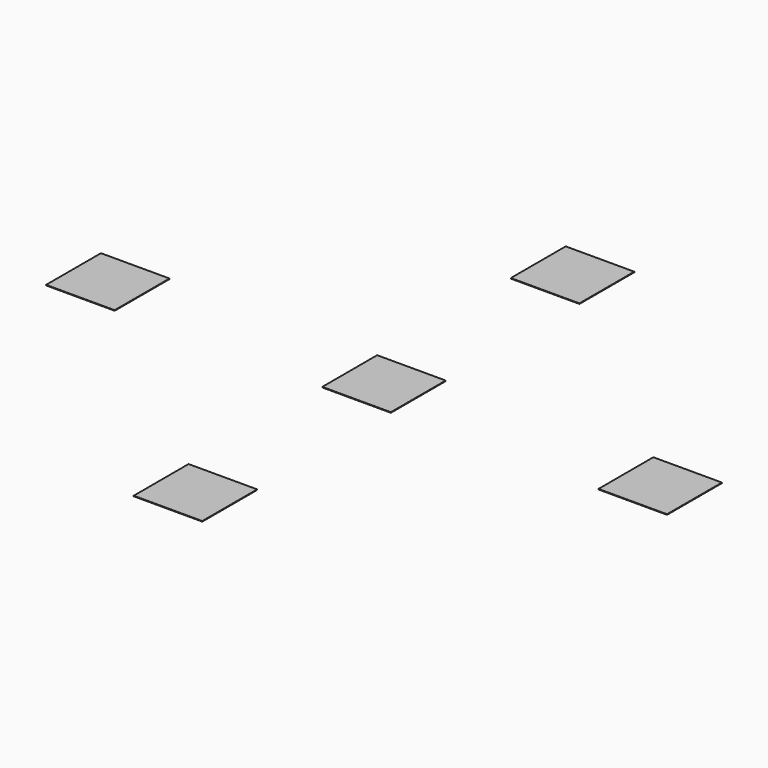
from build123d import *

# Parameters (mm, degrees)
F0_W     = 25.4
F0_H     = 25.4
F1_DEPTH = 0.2


with BuildPart() as f1:
    # F0 (on Top) → F1 (new body)
    with BuildSketch(Plane.XY):
        Rectangle(F0_W, F0_H)
        with Locations((102.3, 0)):
            Rectangle(F0_W, F0_H)
        with Locations((-102.3, 0)):
            Rectangle(F0_W, F0_H)
        with Locations((0, 87.3)):
            Rectangle(F0_W, F0_H)
        with Locations((0, -87.3)):
            Rectangle(F0_W, F0_H)
    extrude(amount=F1_DEPTH)


solid = f1.part
